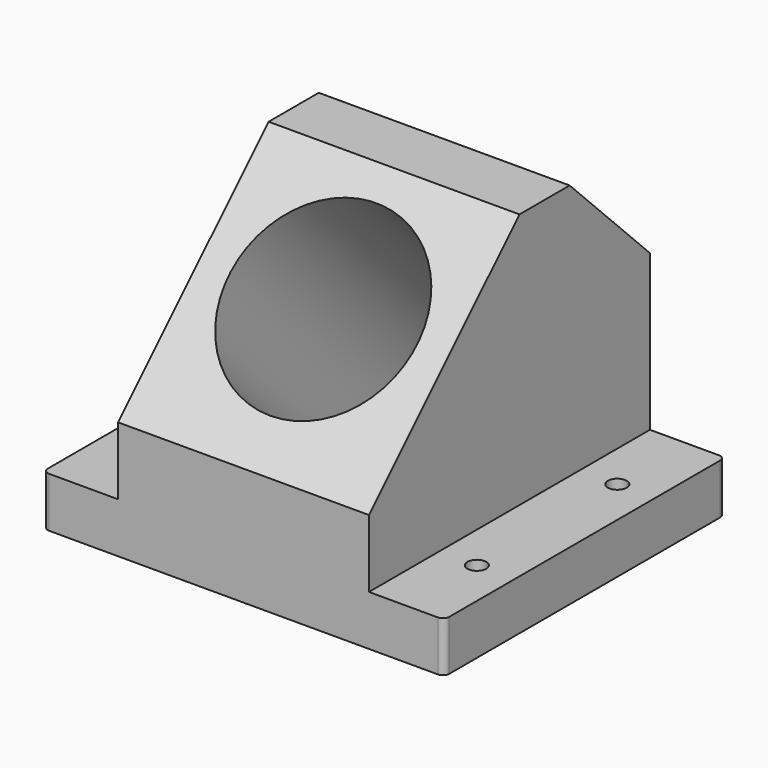
from build123d import *

# Parameters (mm, degrees)
F0_W     = 280
F0_H     = 40
F1_DEPTH = 160
F2_R     = 5
F3_R     = 7.5
F4_DEPTH = 50
F5_DEPTH = 100
F7_DEPTH = 81751


with BuildPart() as f1:
    # F0 (on Right) → F1 (new body, symmetric)
    with BuildSketch(Plane.YZ):
        with Locations((10.9808796245, -66.3028520482)):
            Rectangle(F0_W, F0_H)
    extrude(amount=F1_DEPTH, both=True)

    # F2
    f2_edges = [f1.edges().sort_by_distance(p)[0] for p in [
        (160, -129.01912, -66.302852),
        (-160, -129.01912, -66.302852),
        (160, 150.98088, -66.302852),
        (-160, 150.98088, -66.302852),
    ]]
    fillet(f2_edges, radius=F2_R)

    # F3 (on face) → F4 (cut)
    with BuildSketch(Plane(origin=(0, 0, -86.3028520482), x_dir=(1, 0, 0), z_dir=(0, 0, -1))):
        with Locations((130, -80.9808796245)):
            Circle(F3_R)
        with Locations((130, 59.0191203755)):
            Circle(F3_R)
        with Locations((-130, -80.9808796245)):
            Circle(F3_R)
        with Locations((-130, 59.0191203755)):
            Circle(F3_R)
    extrude(amount=-F4_DEPTH, mode=Mode.SUBTRACT)

    # F0 (on Right) → F5 (join, symmetric)
    with BuildSketch(Plane.YZ):
        Polygon((20.9808796245, 157.6971479518), (-129.0191203755, 7.6971479518), (-129.0191203755, -46.3028520482), (150.9808796245, -46.3028520482), (150.9808796245, 77.6971479518), (70.9808796245, 157.6971479518), align=None)
    extrude(amount=F5_DEPTH, both=True)

    # F6 (on face) → F7 (cut)
    with BuildSketch(Plane(origin=(0, -68.3581341637, 68.3581341637), x_dir=(1, 0, 0), z_dir=(0, -0.7071067812, 0.7071067812))):
        with BuildLine():
            Line((0, -48.4145147354), (0, 101.5854852646))
            ThreePointArc((0, 101.5854852646), (-75, 26.5854852646), (0, -48.4145147354))
        make_face()
        with BuildLine():
            ThreePointArc((75, 26.5854852646), (53.033008589, 79.6184938536), (0, 101.5854852646))
            Line((0, 101.5854852646), (0, -48.4145147354))
            ThreePointArc((0, -48.4145147354), (53.033008589, -26.4475233244), (75, 26.5854852646))
        make_face()
    extrude(amount=-F7_DEPTH, mode=Mode.SUBTRACT)


solid = f1.part
